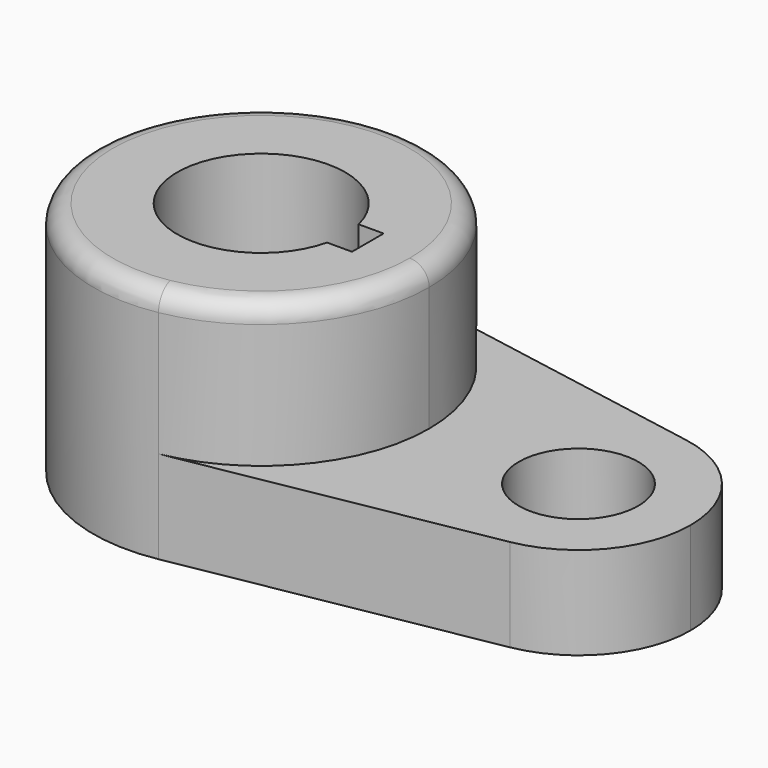
from build123d import *

# Parameters (mm, degrees)
F1_DEPTH = 15.7734
F2_DEPTH = 40.2336
F3_DEPTH = 15.7734
F4_R     = 3.302


with BuildPart() as f1:
    # F0 (on Top) → F1 (new body)
    with BuildSketch(Plane.XY):
        with BuildLine():
            ThreePointArc((3.3617647059, 18.7510276535), (-12.2241744579, 14.6106830375), (-19.05, 0))
            ThreePointArc((-19.05, 0), (-12.2241744579, -14.6106830375), (3.3617647059, -18.7510276535))
            ThreePointArc((3.3617647059, -18.7510276535), (14.6106830375, -12.2241744579), (19.05, 0))
            ThreePointArc((19.05, 0), (14.6106830375, 12.2241744579), (3.3617647059, 18.7510276535))
        make_face()
        with BuildLine():
            ThreePointArc((10.16, 0), (0, -10.16), (-10.16, 0))
            ThreePointArc((-10.16, 0), (0, 10.16), (10.16, 0))
        make_face(mode=Mode.SUBTRACT)
        with BuildLine():
            Line((-25.4, 0), (-19.05, 0))
            ThreePointArc((-19.05, 0), (-12.2241744579, 14.6106830375), (3.3617647059, 18.7510276535))
            Line((3.3617647059, 18.7510276535), (-48.9323529132, 28.1265414752))
            ThreePointArc((-48.9323529132, 28.1265414752), (-32.0589754346, 18.3362616759), (-25.4, 0))
        make_face()
    extrude(amount=F1_DEPTH)

    # F0 (on Top) → F2 (join)
    with BuildSketch(Plane.XY):
        with BuildLine():
            ThreePointArc((-48.9323529412, -28.1265414802), (-32.0589754437, -18.3362616868), (-25.4, 0))
            ThreePointArc((-25.4, 0), (-32.0589754346, 18.3362616759), (-48.9323529132, 28.1265414752))
            ThreePointArc((-48.9323529132, 28.1265414752), (-82.55, 1.42e-08), (-48.9323529412, -28.1265414802))
        make_face()
        with BuildLine():
            Line((-35.8466429449, 3.3609804232), (-35.8466429449, 0))
            Line((-35.8466429449, 0), (-35.8466429449, -3.3609804232))
            Line((-35.8466429449, -3.3609804232), (-40.0884429449, -3.3609804232))
            ThreePointArc((-40.0884429449, -3.3609804232), (-68.2625, 0), (-40.0884429449, 3.3609804232))
            Line((-40.0884429449, 3.3609804232), (-35.8466429449, 3.3609804232))
        make_face(mode=Mode.SUBTRACT)
    extrude(amount=F2_DEPTH)

    # F0 (on Top) → F3 (join)
    with BuildSketch(Plane.XY):
        with BuildLine():
            ThreePointArc((3.3617647059, -18.7510276535), (-12.2241744579, -14.6106830375), (-19.05, 0))
            Line((-19.05, 0), (-25.4, 0))
            ThreePointArc((-25.4, 0), (-32.0589754437, -18.3362616868), (-48.9323529412, -28.1265414802))
            Line((-48.9323529412, -28.1265414802), (3.3617647059, -18.7510276535))
        make_face()
    extrude(amount=F3_DEPTH)

    # F4
    f4_edges = [f1.edges().sort_by_distance(p)[0] for p in [
        (-59.017647, 28.126541, 40.2336),
    ]]
    fillet(f4_edges, radius=F4_R)


solid = f1.part
